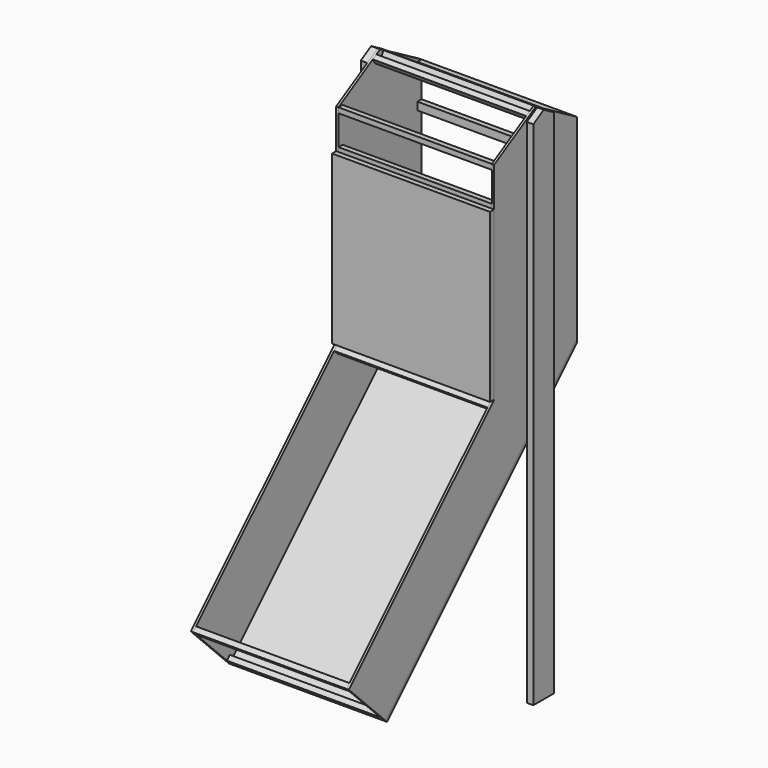
from build123d import *

# Parameters (mm, degrees)
F1_DEPTH  = 9
F3_W      = 20
F3_H      = 20
F3_H_2    = 30
F4_DEPTH  = 591
F5_W      = 609
F5_H      = 645.027375
F6_DEPTH  = 20
F8_DEPTH  = 609
F10_DEPTH = 25


with BuildPart() as f1:
    # F0 (on Right) → F1 (new body)
    with BuildSketch(Plane.YZ):
        Polygon((-584.972853, -211.447406), (-408.196157, -388.224101), (515.027147, 534.999203), (515.027147, 1284.999203), (315.027147, 1400.469257), (115.027147, 1284.999203), (115.027147, 488.552594), align=None)
    extrude(amount=F1_DEPTH)


with BuildPart() as f2_1:
    # F2: copy of F1
    add(f1.part.moved(Location((600, 0, 0))))


with BuildPart() as f4:
    # F3 (on face) → F4 (new body, through all)
    with BuildSketch(Plane(origin=(600, 0, 0), x_dir=(0, -1, 0), z_dir=(-1, 0, 0))):
        Polygon((-500.885012, 549.141339), (-515.027147, 534.999203), (-408.96113, 428.933186), (-394.818995, 443.075322), align=None)
        Polygon((394.054022, -374.081966), (408.196157, -388.224101), (422.338293, -374.081966), (408.196157, -359.93983), align=None)
        Polygon((570.830717, -225.589542), (584.972853, -211.447406), (570.830717, -197.305271), (556.688581, -211.447406), align=None)
        with Locations((-505.027147, 1274.999203)):
            Rectangle(F3_W, F3_H)
        with Locations((-125.027147, 1274.999203)):
            Rectangle(F3_W, F3_H)
        Polygon((-322.347655, 1373.148749), (-332.347655, 1390.469257), (-349.668164, 1380.469257), (-339.668164, 1363.148749), align=None)
        Polygon((-280.386131, 1380.469257), (-297.706639, 1390.469257), (-307.706639, 1373.148749), (-290.386131, 1363.148749), align=None)
        Polygon((-93.813944, 467.33939), (-115.027147, 488.552594), (-129.169283, 474.410458), (-107.95608, 453.197255), align=None)
        with Locations((-125.027147, 503.552594)):
            Rectangle(F3_W, F3_H_2)
        with Locations((-125.027147, 1134.999203)):
            Rectangle(F3_W, F3_H_2)
        with Locations((-505.027147, 1134.999203)):
            Rectangle(F3_W, F3_H_2)
    extrude(amount=F4_DEPTH)


with BuildPart() as f6:
    # F5 (on face) → F6 (new body)
    with BuildSketch(Plane.XZ.offset(-115.027147)):
        with Locations((304.5, 811.066281)):
            Rectangle(F5_W, F5_H)
    extrude(amount=F6_DEPTH)


with BuildPart() as f8:
    # F7 (on face) → F8 (new body, through all)
    with BuildSketch(Plane.YZ.offset(609)):
        Polygon((515.027147, 520.857068), (515.027147, 534.999203), (-408.196157, -388.224101), (-401.12509, -395.295169), align=None)
    extrude(amount=-F8_DEPTH)


with BuildPart() as f10:
    # F9 (on face) → F10 (new body)
    with BuildSketch(Plane(origin=(0, 0, 0), x_dir=(0, -1, 0), z_dir=(-1, 0, 0))):
        Polygon((-265.027147, 1371.601744), (-315.027147, 1400.469257), (-365.027147, 1371.601744), (-365.027147, -599.530743), (-265.027147, -599.530743), align=None)
    extrude(amount=F10_DEPTH)


with BuildPart() as f11_1:
    # F11: copy of F10
    add(f10.part.moved(Location((640, 0, 0))))


solid = Compound([f1.part, f2_1.part, f4.part, f6.part, f8.part, f10.part, f11_1.part])
